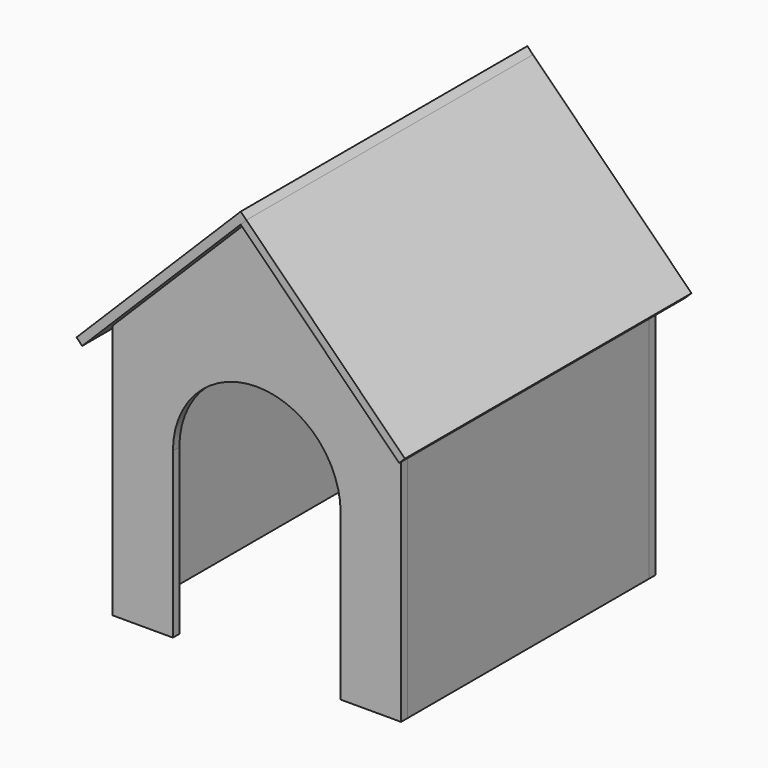
from build123d import *

# Parameters (mm, degrees)
F1_DEPTH = 12
F2_W     = 12
F2_H     = 380
F3_DEPTH = 450
F5_DEPTH = 12
F6_W     = 304.055916
F6_H     = 12
F7_DEPTH = 12
F8_W     = 534
F8_H     = 346.055916
F9_DEPTH = 12


with BuildPart() as f1:
    # F0 (on Front) → F1 (new body)
    with BuildSketch(Plane.XZ):
        with BuildLine():
            Line((-215, 380), (-215, 0))
            Line((-215, 0), (-125, 0))
            Line((-125, 0), (-125, 245))
            ThreePointArc((-125, 245), (0, 370), (125, 245))
            Line((125, 245), (125, 0))
            Line((125, 0), (215, 0))
            Line((215, 0), (215, 380))
            Line((215, 380), (0, 595))
            Line((0, 595), (-215, 380))
        make_face()
    extrude(amount=-F1_DEPTH)


with BuildPart() as f3:
    # F2 (on face) → F3 (new body)
    with BuildSketch(Plane(origin=(0, 12, 0), x_dir=(-1, 0, 0), z_dir=(0, 1, 0))):
        with Locations((-209, 190)):
            Rectangle(F2_W, F2_H)
        with Locations((209, 190)):
            Rectangle(F2_W, F2_H)
    extrude(amount=F3_DEPTH)


with BuildPart() as f5:
    # F4 (on face) → F5 (new body)
    with BuildSketch(Plane(origin=(0, 462, 0), x_dir=(-1, 0, 0), z_dir=(0, 1, 0))):
        Polygon((-215, 380), (-215, 0), (60.764808, 0), (215, 0), (215, 380), (0, 595), align=None)
    extrude(amount=F5_DEPTH)


with BuildPart() as f7:
    # F6 (on face) → F7 (new body)
    with BuildSketch(Plane(origin=(297.5, 0, 297.5), x_dir=(0.707107, 0, -0.707107), z_dir=(0.707107, 0, 0.707107))):
        with Locations((-268.700577, 6)):
            Rectangle(F6_W, F6_H)
        Polygon((-420.728535, 0), (-420.728535, -30), (-86.672619, -30), (-86.672619, 504), (-420.728535, 504), (-420.728535, 12), (-116.672619, 12), (-116.672619, 0), align=None)
    extrude(amount=F7_DEPTH)


with BuildPart() as f9:
    # F8 (on face) → F9 (new body)
    with BuildSketch(Plane(origin=(-297.5, 0, 297.5), x_dir=(0, -1, 0), z_dir=(-0.707107, 0, 0.707107))):
        with Locations((-237, 259.700577)):
            Rectangle(F8_W, F8_H)
    extrude(amount=F9_DEPTH)


solid = Compound([f1.part, f3.part, f5.part, f7.part, f9.part])
